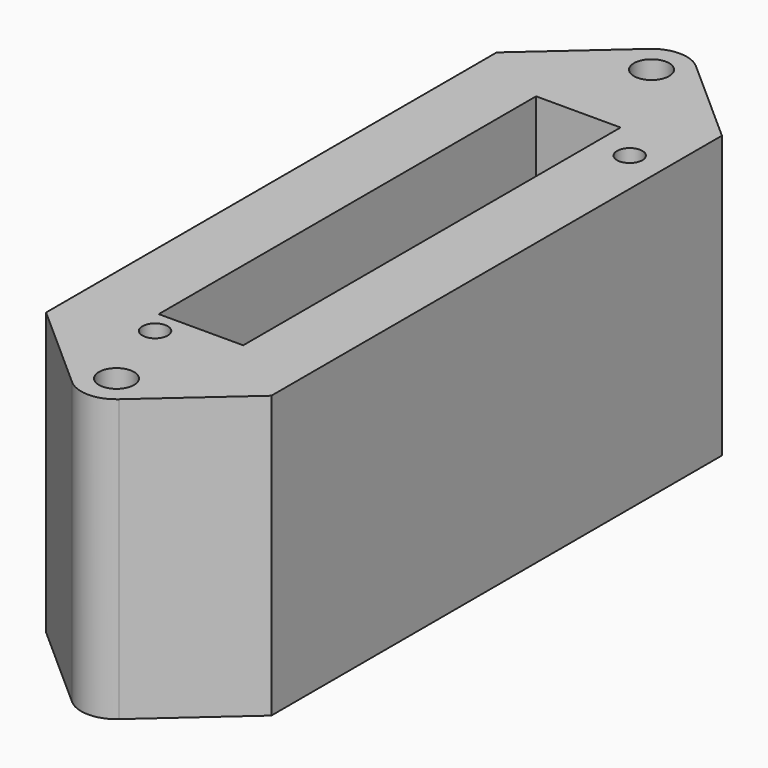
from build123d import *

# Parameters (mm, degrees)
F0_R     = 1.25
F1_DEPTH = 20
F2_W     = 14
F2_H     = 38
F2_W_2   = 6
F2_H_2   = 33.5
F3_DEPTH = 12.7
F8_R     = 0.9
F9_DEPTH = 4.5


with BuildPart() as f1:
    # F0 (on Top) → F1 (new body)
    with BuildSketch(Plane.XY):
        Polygon((8, 20), (-8, 20), (-8, 0), (-8, -20), (8, -20), (8, 0), align=None)
        Polygon((-7, 0), (-7, 19), (7, 19), (7, 0), (7, -19), (-7, -19), align=None, mode=Mode.SUBTRACT)
        with BuildLine():
            Line((-1.6582336623, 25.6208984796), (-8, 20))
            Line((-8, 20), (8, 20))
            Line((8, 20), (1.6582336623, 25.6208984796))
            ThreePointArc((1.6582336623, 25.6208984796), (2.2798666799, 24.7757718665), (2.5, 23.75))
            ThreePointArc((2.5, 23.75), (-1.0257718665, 21.4701333201), (-1.6582336623, 25.6208984796))
        make_face()
        with BuildLine():
            ThreePointArc((1.6582336623, 25.6208984796), (0, 26.25), (-1.6582336623, 25.6208984796))
            ThreePointArc((-1.6582336623, 25.6208984796), (-1.0257718665, 21.4701333201), (2.5, 23.75))
            ThreePointArc((2.5, 23.75), (2.2798666799, 24.7757718665), (1.6582336623, 25.6208984796))
        make_face()
        with Locations((0, 23.75)):
            Circle(F0_R, mode=Mode.SUBTRACT)
        with BuildLine():
            Line((8, -20), (-8, -20))
            Line((-8, -20), (-1.6582336623, -25.6208984796))
            ThreePointArc((-1.6582336623, -25.6208984796), (-1.0257718665, -21.4701333201), (2.5, -23.75))
            ThreePointArc((2.5, -23.75), (2.2798666799, -24.7757718665), (1.6582336623, -25.6208984796))
            Line((1.6582336623, -25.6208984796), (8, -20))
        make_face()
        with BuildLine():
            ThreePointArc((2.5, -23.75), (-1.0257718665, -21.4701333201), (-1.6582336623, -25.6208984796))
            ThreePointArc((-1.6582336623, -25.6208984796), (0, -26.25), (1.6582336623, -25.6208984796))
            ThreePointArc((1.6582336623, -25.6208984796), (2.2798666799, -24.7757718665), (2.5, -23.75))
        make_face()
        with Locations((0, -23.75)):
            Circle(F0_R, mode=Mode.SUBTRACT)
    extrude(amount=F1_DEPTH)

    # F2 (on face) → F3 (join)
    with BuildSketch(Plane.XY.offset(20)):
        Rectangle(F2_W, F2_H)
        with Locations((0, 0.5)):
            Rectangle(F2_W_2, F2_H_2, mode=Mode.SUBTRACT)
    extrude(amount=-F3_DEPTH)

    # F6: sweep along a path in F6_path
    with BuildLine(Plane(origin=(-7, 19, 0), x_dir=(0, 1, 0), z_dir=(0, 0, 1))) as f6_path:
        Line((0, 0), (0, -14))
    # F4 (on face) → F6 (sweep)
    with BuildSketch(Plane.YZ.offset(-7)):
        with BuildLine():
            Line((-19, 7.3), (-19, 0))
            add(Edge.make_bspline(
                [(-19, 0), (-16.966280043, 0), (-16.25, 4.7682679952), (-16.25, 7.3)],
                knots=[0, 0, 0, 0, 7.8008012409, 7.8008012409, 7.8008012409, 7.8008012409], degree=3))
            Line((-16.25, 7.3), (-19, 7.3))
        make_face()
        with BuildLine():
            Line((19, 7.3), (17.25, 7.3))
            add(Edge.make_bspline(
                [(19, 0), (16.966280043, 0), (17.25, 4.7682679952), (17.25, 7.3)],
                knots=[0, 0, 0, 0, 7.5068302232, 7.5068302232, 7.5068302232, 7.5068302232], degree=3))
            Line((19, 0), (19, 7.3))
        make_face()
    sweep(path=f6_path.line)

    # F7: sweep along a path in F7_path
    with BuildLine(Plane(origin=(-7, -19, 0), x_dir=(0, -1, 0), z_dir=(0, 0, -1))) as f7_path:
        Line((0, 0), (-38, 0))
    # F5 (on face) → F7 (sweep)
    with BuildSketch(Plane(origin=(0, -19, 0), x_dir=(-1, 0, 0), z_dir=(0, 1, 0))):
        with BuildLine():
            add(Edge.make_bspline(
                [(7, 0), (4.5295656249, 0), (3, 4.5769013319), (3, 7.3)],
                knots=[0, 0, 0, 0, 8.3240615087, 8.3240615087, 8.3240615087, 8.3240615087], degree=3))
            Line((7, 0), (7, 7.3))
            Line((7, 7.3), (3, 7.3))
        make_face()
        with BuildLine():
            Line((-7, 7.3), (-7, 0))
            add(Edge.make_bspline(
                [(-7, 0), (-4.5295656249, 0), (-3, 4.5769013319), (-3, 7.3)],
                knots=[0, 0, 0, 0, 8.3240615087, 8.3240615087, 8.3240615087, 8.3240615087], degree=3))
            Line((-3, 7.3), (-7, 7.3))
        make_face()
    sweep(path=f7_path.line)

    # F8 (on face) → F9 (cut)
    with BuildSketch(Plane.XY.offset(20)):
        with Locations((5.5, 14.94)):
            Circle(F8_R)
        with Locations((-1.9, -17.95)):
            Circle(F8_R)
    extrude(amount=-F9_DEPTH, mode=Mode.SUBTRACT)


solid = f1.part
